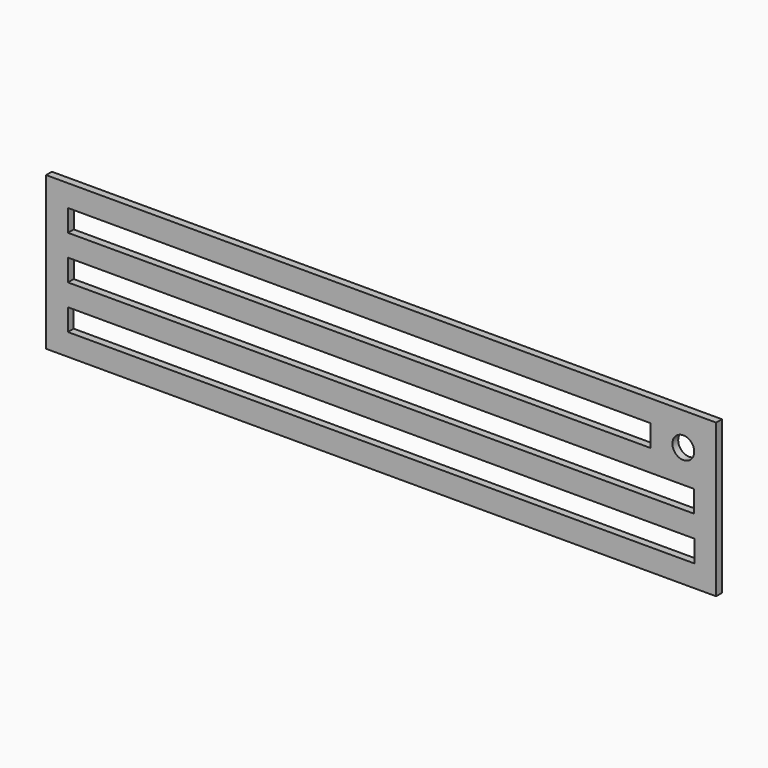
from build123d import *

# Parameters (mm, degrees)
F0_W     = 92
F0_H     = 21
F0_W_2   = 86.023346
F0_H_2   = 3
F0_W_3   = 80
F0_W_4   = 86
F0_R     = 1.5
F1_DEPTH = 1


with BuildPart() as f1:
    # F0 (on Front) → F1 (new body)
    with BuildSketch(Plane.XZ):
        Rectangle(F0_W, F0_H)
        with Locations((0, -6)):
            Rectangle(F0_W_2, F0_H_2, mode=Mode.SUBTRACT)
        with Locations((-3, 6)):
            Rectangle(F0_W_3, F0_H_2, mode=Mode.SUBTRACT)
        Rectangle(F0_W_4, F0_H_2, mode=Mode.SUBTRACT)
        with Locations((41.5, 6)):
            Circle(F0_R, mode=Mode.SUBTRACT)
    extrude(amount=F1_DEPTH)


solid = f1.part
